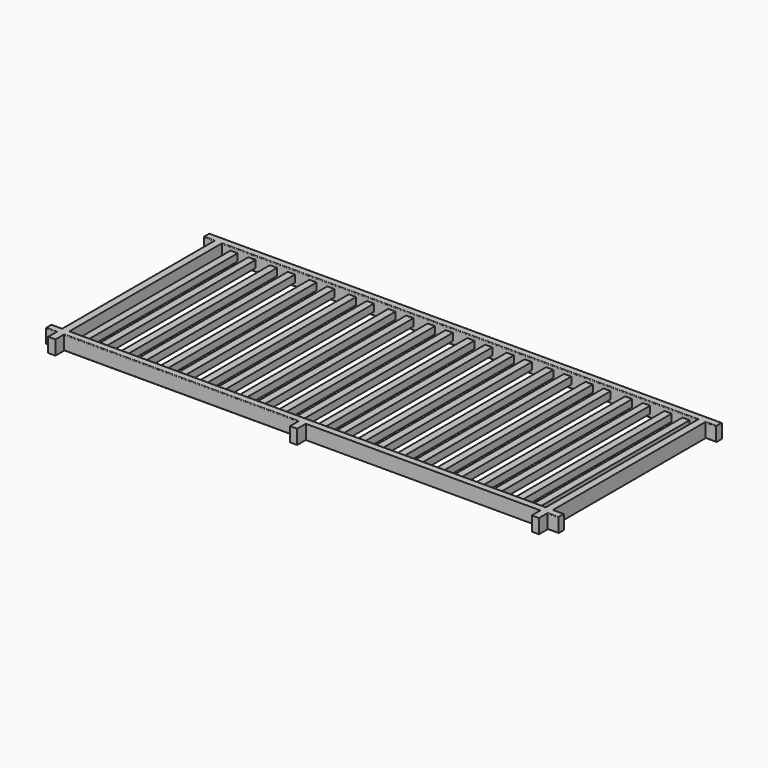
from build123d import *

# Parameters (mm, degrees)
F0_W          = 75
F0_H          = 50
F0_W_2        = 50
F0_W_3        = 3320
F0_H_2        = 1325
F0_H_3        = 75
F1_DEPTH      = 75
F1_DEPTH_BACK = 25
F2_R          = 5
F3_W          = 50
F3_H          = 1325
F4_DEPTH      = 50


with BuildPart() as f1:
    # F0 (on Top) → F1 (new body, two sides)
    with BuildSketch(Plane.XY) as f1_sk:
        with Locations((37.5, 1475)):
            Rectangle(F0_W, F0_H)
        with Locations((100, 1475)):
            Rectangle(F0_W_2, F0_H)
        with Locations((1785, 1475)):
            Rectangle(F0_W_3, F0_H)
        with Locations((100, 787.5)):
            Rectangle(F0_W_2, F0_H_2)
        with Locations((3470, 1475)):
            Rectangle(F0_W_2, F0_H)
        with Locations((37.5, 100)):
            Rectangle(F0_W, F0_H)
        with Locations((100, 100)):
            Rectangle(F0_W_2, F0_H)
        with Locations((3532.5, 1475)):
            Rectangle(F0_W, F0_H)
        with Locations((3470, 787.5)):
            Rectangle(F0_W_2, F0_H_2)
        Polygon((3445, 125), (125, 125), (125, 75), (1760, 75), (1810, 75), (3445, 75), align=None)
        with Locations((100, 37.5)):
            Rectangle(F0_W_2, F0_H_3)
        with Locations((3470, 100)):
            Rectangle(F0_W_2, F0_H)
        with Locations((3532.5, 100)):
            Rectangle(F0_W, F0_H)
        with Locations((3470, 37.5)):
            Rectangle(F0_W_2, F0_H_3)
        with Locations((1785, 37.5)):
            Rectangle(F0_W_2, F0_H_3)
    extrude(amount=F1_DEPTH)
    extrude(f1_sk.sketch, amount=-F1_DEPTH_BACK)

    # F2
    f2_edges = [f1.edges().sort_by_distance(p)[0] for p in [
        (1785, 1450, 75),
        (1785, 1500, 75),
        (1785, 125, 75),
        (942.5, 75, 75),
        (37.5, 75, 75),
        (37.5, 125, 75),
        (3532.5, 125, 75),
        (3532.5, 75, 75),
        (3532.5, 1450, 75),
        (37.5, 1450, 75),
        (1785, 1500, -25),
        (1785, 1450, -25),
        (3532.5, 1450, -25),
        (3532.5, 75, -25),
        (3532.5, 125, -25),
        (1785, 125, -25),
        (942.5, 75, -25),
        (37.5, 125, -25),
        (37.5, 75, -25),
        (37.5, 1450, -25),
    ]]
    fillet(f2_edges, radius=F2_R)


with BuildPart() as f4:
    # F3 (on Top) → F4 (new body)
    with BuildSketch(Plane.XY):
        with Locations((210, 787.5)):
            Rectangle(F3_W, F3_H)
    extrude(amount=F4_DEPTH)


with BuildPart() as f4b:
    # F3 (on Top) → F4, piece 2 (new body)
    with BuildSketch(Plane.XY):
        with Locations((335, 787.5)):
            Rectangle(F3_W, F3_H)
    extrude(amount=F4_DEPTH)


with BuildPart() as f4c:
    # F3 (on Top) → F4, piece 3 (new body)
    with BuildSketch(Plane.XY):
        with Locations((610, 787.5)):
            Rectangle(F3_W, F3_H)
    extrude(amount=F4_DEPTH)


with BuildPart() as f4d:
    # F3 (on Top) → F4, piece 4 (new body)
    with BuildSketch(Plane.XY):
        with Locations((485, 787.5)):
            Rectangle(F3_W, F3_H)
    extrude(amount=F4_DEPTH)


with BuildPart() as f4e:
    # F3 (on Top) → F4, piece 5 (new body)
    with BuildSketch(Plane.XY):
        with Locations((885, 787.5)):
            Rectangle(F3_W, F3_H)
    extrude(amount=F4_DEPTH)


with BuildPart() as f4f:
    # F3 (on Top) → F4, piece 6 (new body)
    with BuildSketch(Plane.XY):
        with Locations((760, 787.5)):
            Rectangle(F3_W, F3_H)
    extrude(amount=F4_DEPTH)


with BuildPart() as f4g:
    # F3 (on Top) → F4, piece 7 (new body)
    with BuildSketch(Plane.XY):
        with Locations((1160, 787.5)):
            Rectangle(F3_W, F3_H)
    extrude(amount=F4_DEPTH)


with BuildPart() as f4h:
    # F3 (on Top) → F4, piece 8 (new body)
    with BuildSketch(Plane.XY):
        with Locations((1035, 787.5)):
            Rectangle(F3_W, F3_H)
    extrude(amount=F4_DEPTH)


with BuildPart() as f4i:
    # F3 (on Top) → F4, piece 9 (new body)
    with BuildSketch(Plane.XY):
        with Locations((1435, 787.5)):
            Rectangle(F3_W, F3_H)
    extrude(amount=F4_DEPTH)


with BuildPart() as f4j:
    # F3 (on Top) → F4, piece 10 (new body)
    with BuildSketch(Plane.XY):
        with Locations((1310, 787.5)):
            Rectangle(F3_W, F3_H)
    extrude(amount=F4_DEPTH)


with BuildPart() as f4k:
    # F3 (on Top) → F4, piece 11 (new body)
    with BuildSketch(Plane.XY):
        with Locations((1710, 787.5)):
            Rectangle(F3_W, F3_H)
    extrude(amount=F4_DEPTH)


with BuildPart() as f4l:
    # F3 (on Top) → F4, piece 12 (new body)
    with BuildSketch(Plane.XY):
        with Locations((1585, 787.5)):
            Rectangle(F3_W, F3_H)
    extrude(amount=F4_DEPTH)


with BuildPart() as f4m:
    # F3 (on Top) → F4, piece 13 (new body)
    with BuildSketch(Plane.XY):
        with Locations((1985, 787.5)):
            Rectangle(F3_W, F3_H)
    extrude(amount=F4_DEPTH)


with BuildPart() as f4n:
    # F3 (on Top) → F4, piece 14 (new body)
    with BuildSketch(Plane.XY):
        with Locations((1860, 787.5)):
            Rectangle(F3_W, F3_H)
    extrude(amount=F4_DEPTH)


with BuildPart() as f4o:
    # F3 (on Top) → F4, piece 15 (new body)
    with BuildSketch(Plane.XY):
        with Locations((2260, 787.5)):
            Rectangle(F3_W, F3_H)
    extrude(amount=F4_DEPTH)


with BuildPart() as f4p:
    # F3 (on Top) → F4, piece 16 (new body)
    with BuildSketch(Plane.XY):
        with Locations((2135, 787.5)):
            Rectangle(F3_W, F3_H)
    extrude(amount=F4_DEPTH)


with BuildPart() as f4q:
    # F3 (on Top) → F4, piece 17 (new body)
    with BuildSketch(Plane.XY):
        with Locations((2535, 787.5)):
            Rectangle(F3_W, F3_H)
    extrude(amount=F4_DEPTH)


with BuildPart() as f4r:
    # F3 (on Top) → F4, piece 18 (new body)
    with BuildSketch(Plane.XY):
        with Locations((2410, 787.5)):
            Rectangle(F3_W, F3_H)
    extrude(amount=F4_DEPTH)


with BuildPart() as f4s:
    # F3 (on Top) → F4, piece 19 (new body)
    with BuildSketch(Plane.XY):
        with Locations((2810, 787.5)):
            Rectangle(F3_W, F3_H)
    extrude(amount=F4_DEPTH)


with BuildPart() as f4t:
    # F3 (on Top) → F4, piece 20 (new body)
    with BuildSketch(Plane.XY):
        with Locations((2685, 787.5)):
            Rectangle(F3_W, F3_H)
    extrude(amount=F4_DEPTH)


with BuildPart() as f4u:
    # F3 (on Top) → F4, piece 21 (new body)
    with BuildSketch(Plane.XY):
        with Locations((3085, 787.5)):
            Rectangle(F3_W, F3_H)
    extrude(amount=F4_DEPTH)


with BuildPart() as f4v:
    # F3 (on Top) → F4, piece 22 (new body)
    with BuildSketch(Plane.XY):
        with Locations((2960, 787.5)):
            Rectangle(F3_W, F3_H)
    extrude(amount=F4_DEPTH)


with BuildPart() as f4w:
    # F3 (on Top) → F4, piece 23 (new body)
    with BuildSketch(Plane.XY):
        with Locations((3360, 787.5)):
            Rectangle(F3_W, F3_H)
    extrude(amount=F4_DEPTH)


with BuildPart() as f4x:
    # F3 (on Top) → F4, piece 24 (new body)
    with BuildSketch(Plane.XY):
        with Locations((3235, 787.5)):
            Rectangle(F3_W, F3_H)
    extrude(amount=F4_DEPTH)


solid = Compound([f1.part, f4.part, f4b.part, f4c.part, f4d.part, f4e.part, f4f.part, f4g.part, f4h.part, f4i.part, f4j.part, f4k.part, f4l.part, f4m.part, f4n.part, f4o.part, f4p.part, f4q.part, f4r.part, f4s.part, f4t.part, f4u.part, f4v.part, f4w.part, f4x.part])
